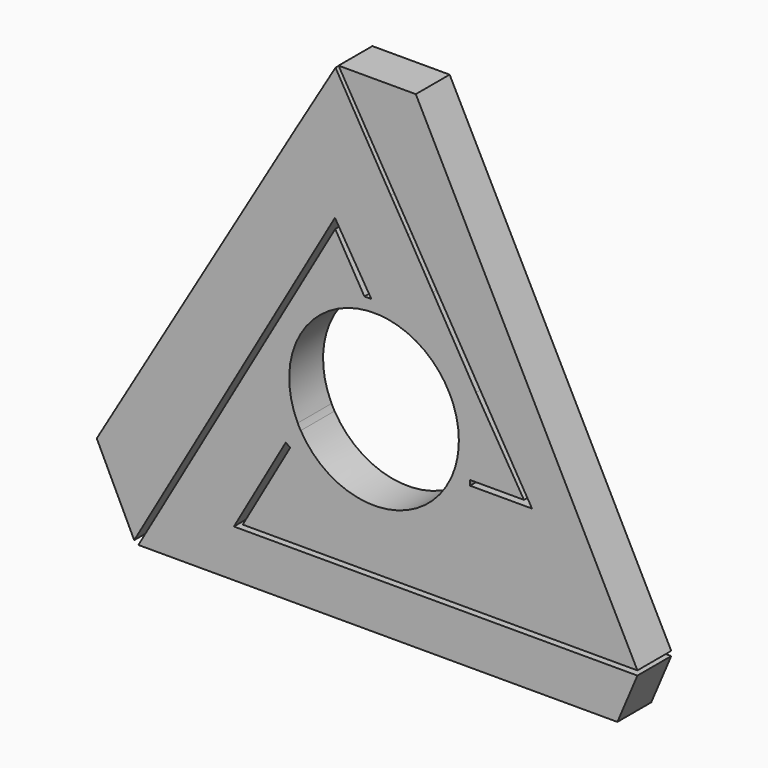
from build123d import *

# Parameters (mm, degrees)
F1_DEPTH = 6.35


with BuildPart() as f1:
    # F0 (on Front) → F1 (new body)
    with BuildSketch(Plane.XZ):
        with BuildLine():
            ThreePointArc((0.6420356595, 12.7143275372), (0.6423650343, 12.7143109004), (0.6426944088, 12.7142942552))
            Line((0.6426944088, 12.7142942552), (-0.4023160921, 14.4262710383))
            Line((-0.4023160921, 14.4262710383), (0.6420356595, 12.7143275372))
        make_face()
        with BuildLine():
            Line((-0.4023160921, 14.4262710383), (0.6426944088, 12.7142942552))
            ThreePointArc((0.6426944088, 12.7142942552), (9.2262715508, 8.7716730321), (12.7305276603, 0))
            ThreePointArc((12.7305276603, 0), (12.5071194057, -2.3745101985), (11.8447358325, -4.6656797543))
            Line((11.8447358325, -4.6656797543), (14.4029557705, -4.6656797543))
            Line((14.4029557705, -4.6656797543), (22.5044383929, -4.6656797543))
            Line((22.5044383929, -4.6656797543), (15.3299933299, 7.1679912508))
            Line((15.3299933299, 7.1679912508), (8.834191598, 18.3064807206))
            Line((8.834191598, 18.3064807206), (5.1066773012, 24.7028805315))
            Line((5.1066773012, 24.7028805315), (2.5157989003, 29.0710516274))
            Line((2.5157989003, 29.0710516274), (-1.2103774352, 35.4090332985))
            Line((-1.2103774352, 35.4090332985), (-5.780342864, 43.2452502747))
            Line((-5.780342864, 43.2452502747), (-11.8711013347, 33.0273285508))
            Line((-11.8711013347, 33.0273285508), (-21.6382108629, 16.4683535695))
            Line((-21.6382108629, 16.4683535695), (-28.8438722491, 4.2575513944))
            Line((-28.8438722491, 4.2575513944), (-37.3607726563, -10.1818424051))
            Line((-37.3607726563, -10.1818424051), (-41.6159545072, -17.3959982008))
            Line((-41.6159545072, -17.3959982008), (-35.9957702458, -29.0205851197))
            Line((-35.9957702458, -29.0205851197), (-5.8674761094, 23.3795084059))
            Line((-5.8674761094, 23.3795084059), (-0.4023160921, 14.4262710383))
        make_face()
        with BuildLine():
            ThreePointArc((-0.4550087817, 12.7223937024), (0.0936003687, 12.7301835604), (0.6420356595, 12.7143275372))
            Line((0.6420356595, 12.7143275372), (-0.4023160921, 14.4262710383))
            Line((-0.4023160921, 14.4262710383), (-1.4486847535, 14.4262710383))
            Line((-1.4486847535, 14.4262710383), (-0.4550087817, 12.7223937024))
        make_face()
        with BuildLine():
            Line((14.4029557705, -4.6656797543), (11.8447358325, -4.6656797543))
            ThreePointArc((11.8447358325, -4.6656797543), (11.6874073381, -5.0468647915), (11.5178153855, -5.4227542132))
            Line((11.5178153855, -5.4227542132), (14.4029557705, -5.4227542132))
            Line((14.4029557705, -5.4227542132), (14.4029557705, -4.6656797543))
        make_face()
        with BuildLine():
            ThreePointArc((-11.4526011537, -5.5591601277), (-10.9087852763, 6.5623729174), (-0.4550087817, 12.7223937024))
            Line((-0.4550087817, 12.7223937024), (-1.4486847535, 14.4262710383))
            Line((-1.4486847535, 14.4262710383), (-5.8187865652, 21.9197776169))
            Line((-5.8187865652, 21.9197776169), (-35.3677496314, -29.4446740299))
            Line((-35.3677496314, -29.4446740299), (36.5263037384, -29.4446740299))
            Line((36.5263037384, -29.4446740299), (39.5308825609, -22.344891277))
            Line((39.5308825609, -22.344891277), (-21.0331580314, -22.344891277))
            Line((-21.0331580314, -22.344891277), (-13.2635079075, -8.731981321))
            Line((-13.2635079075, -8.731981321), (-11.4526011537, -5.5591601277))
        make_face()
        with BuildLine():
            Line((14.4029557705, -5.4227542132), (11.5178153855, -5.4227542132))
            ThreePointArc((11.5178153855, -5.4227542132), (0.5570083344, -12.7183362208), (-10.9996389525, -6.4089217053))
            Line((-10.9996389525, -6.4089217053), (-12.5560140818, -9.1357876716))
            Line((-12.5560140818, -9.1357876716), (-19.7045617315, -21.6604874868))
            Line((-19.7045617315, -21.6604874868), (39.5308825609, -21.6604874868))
            Line((39.5308825609, -21.6604874868), (6.2697511166, 43.6630621552))
            Line((6.2697511166, 43.6630621552), (-5.3252791986, 43.6630621552))
            Line((-5.3252791986, 43.6630621552), (23.7136855721, -5.4227542132))
            Line((23.7136855721, -5.4227542132), (14.4029557705, -5.4227542132))
        make_face()
        with BuildLine():
            ThreePointArc((-10.9996389525, -6.4089217053), (-11.2341575176, -5.9883252566), (-11.4526011537, -5.5591601277))
            Line((-11.4526011537, -5.5591601277), (-13.2635079075, -8.731981321))
            Line((-13.2635079075, -8.731981321), (-12.5560140818, -9.1357876716))
            Line((-12.5560140818, -9.1357876716), (-10.9996389525, -6.4089217053))
        make_face()
    extrude(amount=F1_DEPTH)


solid = f1.part
